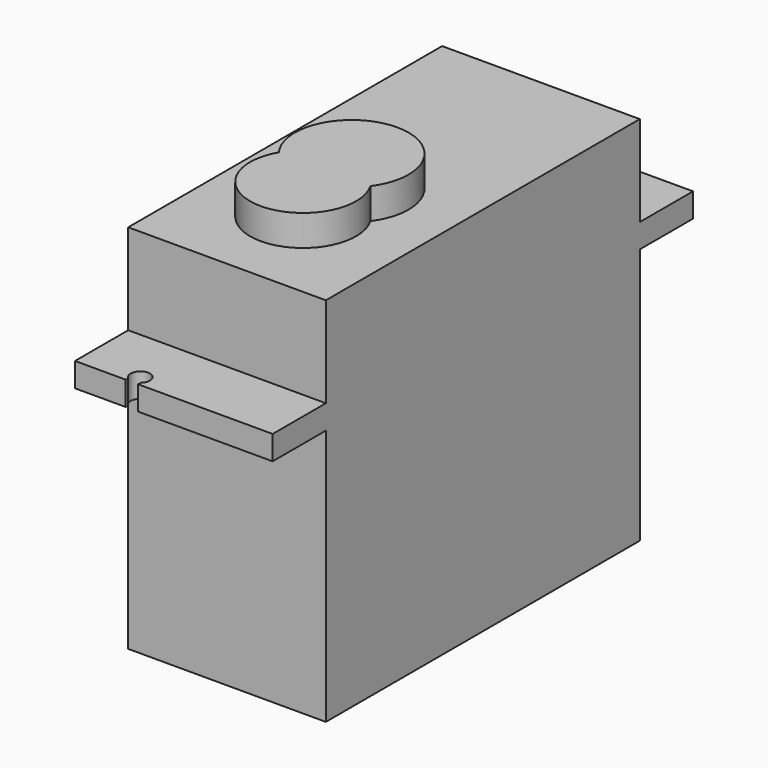
from build123d import *

# Parameters (mm, degrees)
BOX003_W          = 1.3
BOX003_H          = 3.3
BOX003_DEPTH      = 10
BOX002_W          = 1.3
BOX002_H          = 3.3
BOX002_DEPTH      = 10
CYLINDER004_R     = 1
CYLINDER004_DEPTH = 10
CYLINDER003_R     = 1
CYLINDER003_DEPTH = 10
CYLINDER001_R     = 5.5
CYLINDER001_DEPTH = 4
CYLINDER_R        = 5.9
CYLINDER_DEPTH    = 4
BOX001_W          = 20.5
BOX001_H          = 54.5
BOX001_DEPTH      = 2.5
BOX_W             = 20.5
BOX_H             = 40.7
BOX_DEPTH         = 38.5


with BuildPart() as cubo003:
    # Box003 → Box003 (new body)
    with BuildSketch(Plane(origin=(5.25, 46, 20), x_dir=(1, 0, 0), z_dir=(0, 0, 1))):
        with Locations((0.65, 1.65)):
            Rectangle(BOX003_W, BOX003_H)
    extrude(amount=BOX003_DEPTH)


with BuildPart() as obj1:
    # Box002 → Box002 (new body)
    with BuildSketch(Plane(origin=(5.25, -9, 20), x_dir=(1, 0, 0), z_dir=(0, 0, 1))):
        with Locations((0.65, 1.65)):
            Rectangle(BOX002_W, BOX002_H)
    extrude(amount=BOX002_DEPTH)

    # Fusion005: union Cubo003
    add(cubo003.part)


with BuildPart() as taladro2:
    # Cylinder004 → Cylinder004 (new body)
    with BuildSketch(Plane(origin=(5.9, 46.4, 21), x_dir=(1, 0, 0), z_dir=(0, 0, 1))):
        Circle(CYLINDER004_R)
    extrude(amount=CYLINDER004_DEPTH)


with BuildPart() as taladros001:
    # Cylinder003 → Cylinder003 (new body)
    with BuildSketch(Plane(origin=(5.9, -5.8, 21), x_dir=(1, 0, 0), z_dir=(0, 0, 1))):
        Circle(CYLINDER003_R)
    extrude(amount=CYLINDER003_DEPTH)

    # Fusion004: union Taladro2
    add(taladro2.part)

    # Fusion006: union obj1
    add(obj1.part)


with BuildPart() as cilindro001:
    # Cylinder001 → Cylinder001 (new body)
    with BuildSketch(Plane(origin=(9.9, 10.3, 37.7), x_dir=(1, 0, 0), z_dir=(0, 0, 1))):
        Circle(CYLINDER001_R)
    extrude(amount=CYLINDER001_DEPTH)


with BuildPart() as fusion001:
    # Cylinder → Cylinder (new body)
    with BuildSketch(Plane(origin=(9.9, 16.6, 37.7), x_dir=(1, 0, 0), z_dir=(0, 0, 1))):
        Circle(CYLINDER_R)
    extrude(amount=CYLINDER_DEPTH)

    # Fusion001: union Cilindro001
    add(cilindro001.part)


with BuildPart() as cubo001:
    # Box001 → Box001 (new body)
    with BuildSketch(Plane(origin=(0, -6.9, 26.6), x_dir=(1, 0, 0), z_dir=(0, 0, 1))):
        with Locations((10.25, 27.25)):
            Rectangle(BOX001_W, BOX001_H)
    extrude(amount=BOX001_DEPTH)


with BuildPart() as cuerpo_con_taladros:
    # Box → Box (new body)
    with BuildSketch(Plane.XY):
        with Locations((10.25, 20.35)):
            Rectangle(BOX_W, BOX_H)
    extrude(amount=BOX_DEPTH)

    # Fusion: union Cubo001
    add(cubo001.part)

    # Fusion003: union Fusion001
    add(fusion001.part)

    # Cut: cut Taladros001
    add(taladros001.part, mode=Mode.SUBTRACT)


with BuildPart() as cuerpo_con_taladros_1:
    # Cut placement: moved
    add(cuerpo_con_taladros.part.moved(Location((-5.9, 0, 0))))


solid = cuerpo_con_taladros_1.part
